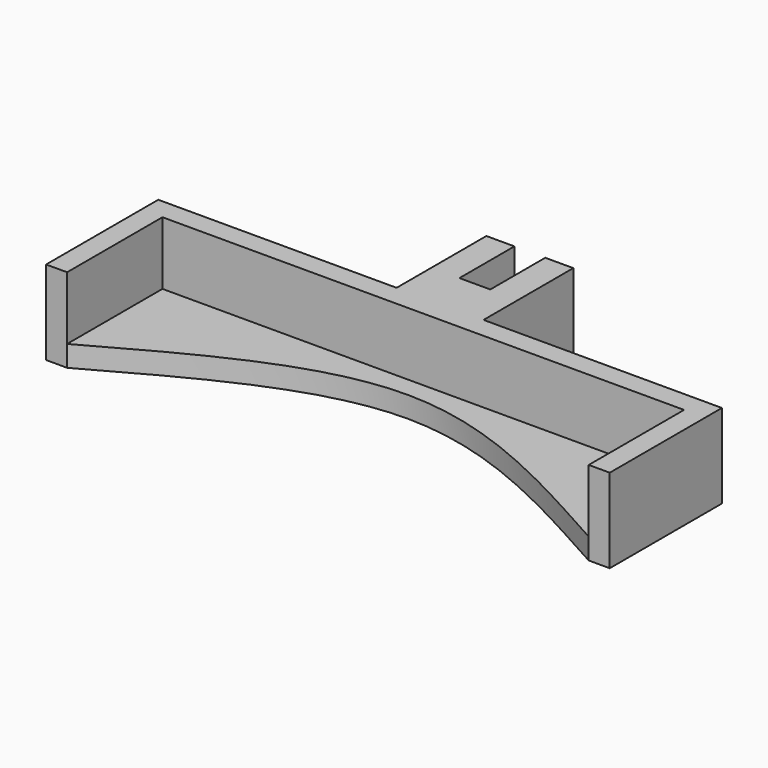
from build123d import *

# Parameters (mm, degrees)
F1_DEPTH = 6
F2_DEPTH = 1.5


with BuildPart() as f1:
    # F0 (on Top) → F1 (new body)
    with BuildSketch(Plane.XY):
        Polygon((2, 0), (0, 0), (0, -8), (-17, -8), (-17, -18), (-15.5, -18), (-15.5, -9.5), (21.7, -9.5), (21.7, -18), (23.2, -18), (23.2, -8), (6.2, -8), (6.2, 0), (4.2, 0), (4.2, -4.9), (2, -4.9), align=None)
    extrude(amount=F1_DEPTH)

    # F0 (on Top) → F2 (join)
    with BuildSketch(Plane.XY):
        with BuildLine():
            Line((-15.5, -9.5), (-15.5, -18))
            add(Edge.make_bspline(
                [(-15.5, -18), (-9.133333, -14.471125), (3.1, -7.413374), (15.333333, -14.471125), (21.7, -18)],
                knots=[0, 0, 0, 0, 19.894015, 39.78803, 39.78803, 39.78803, 39.78803], degree=3))
            Line((21.7, -18), (21.7, -9.5))
            Line((21.7, -9.5), (-15.5, -9.5))
        make_face()
    extrude(amount=F2_DEPTH)


solid = f1.part
